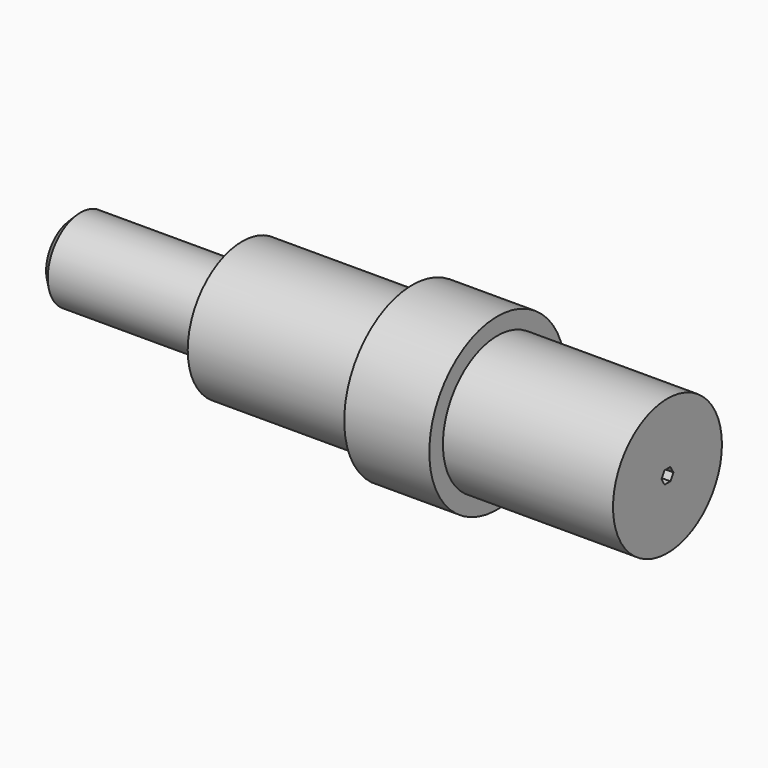
from build123d import *

# Parameters (mm, degrees)
F0_R      = 20
F1_DEPTH  = 20
F2_R      = 16
F3_DEPTH  = 40
F4_R      = 9.625258
F5_DEPTH  = 40
F6_SIZE   = 2
F7_R      = 16
F8_DEPTH  = 40
F10_DEPTH = 10.2


with BuildPart() as f1:
    # F0 (on Right) → F1 (new body)
    with BuildSketch(Plane.YZ):
        Circle(F0_R)
    extrude(amount=-F1_DEPTH)

    # F2 (on face) → F3 (join)
    with BuildSketch(Plane(origin=(-20, 0, 0), x_dir=(0, -1, 0), z_dir=(-1, 0, 0))):
        Circle(F2_R)
    extrude(amount=F3_DEPTH)

    # F4 (on face) → F5 (join)
    with BuildSketch(Plane(origin=(-60, 0, 0), x_dir=(0, -1, 0), z_dir=(-1, 0, 0))):
        Circle(F4_R)
    extrude(amount=F5_DEPTH)

    # F6
    f6_edges = [f1.edges().sort_by_distance(p)[0] for p in [
        (-100, 9.625258, 0),
    ]]
    chamfer(f6_edges, length=F6_SIZE)

    # F7 (on face) → F8 (join)
    with BuildSketch(Plane.YZ):
        Circle(F7_R)
    extrude(amount=F8_DEPTH)

    # F9 (on face) → F10 (cut)
    with BuildSketch(Plane.YZ.offset(40)):
        Polygon((-0.866025, -1.5), (0.866025, -1.5), (1.732051, 0), (0.866025, 1.5), (-0.866025, 1.5), (-1.732051, 0), align=None)
    extrude(amount=-F10_DEPTH, mode=Mode.SUBTRACT)


solid = f1.part
